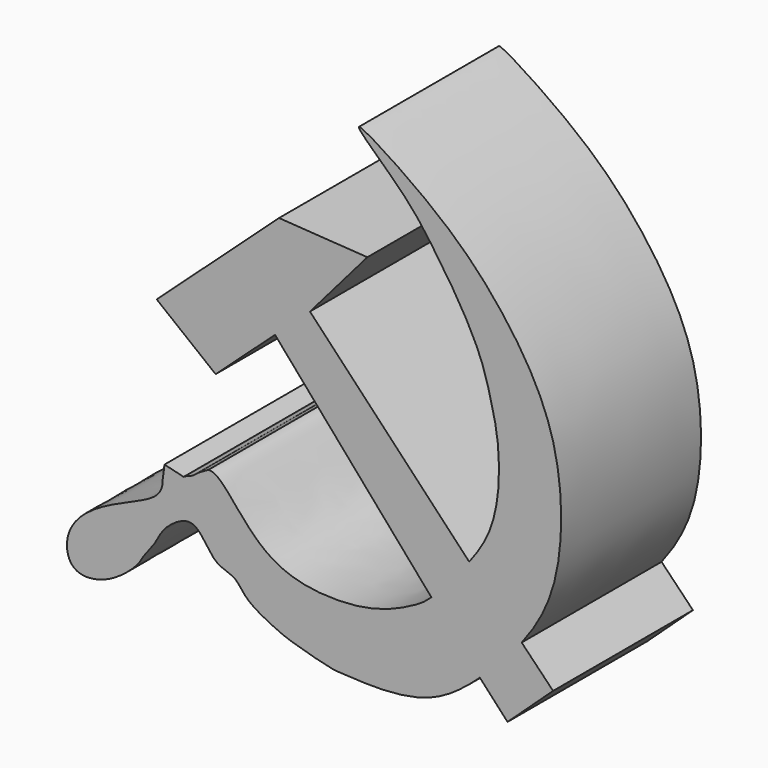
from build123d import *

# Parameters (mm, degrees)
F1_DEPTH = 7


with BuildPart() as f1:
    # F0 (on Front) → F1 (new body)
    with BuildSketch(Plane.XZ):
        with BuildLine():
            Line((-6.4950459637, 1.1675328715), (-4.1164821014, 3.3289631829))
            Line((-4.1164821014, 3.3289631829), (2.1449406631, -3.8891390432))
            add(Edge.make_bspline(
                [(3.6578383297, -2.1421851125), (3.2109456388, -2.7285032676), (2.5778835462, -3.4803615967), (2.1449406631, -3.8891390432)],
                knots=[0.2067136048, 0.2067136048, 0.2067136048, 0.2067136048, 0.2330902126, 0.2330902126, 0.2330902126, 0.2330902126], degree=3))
            Line((3.6578383297, -2.1421851125), (-2.7173105627, 4.6036634594))
            Line((-2.7173105627, 4.6036634594), (-0.4199028481, 7.2657116689))
            Line((-0.4199028481, 7.2657116689), (-3.9569986984, 7.4983569793))
            Line((-3.9569986984, 7.4983569793), (-8.854098618, 3.0369071756))
            Line((-8.854098618, 3.0369071756), (-6.4950459637, 1.1675328715))
        make_face()
        with BuildLine():
            add(Edge.make_bspline(
                [(3.6578383297, -2.1421851125), (3.2109456388, -2.7285032676), (2.5778835462, -3.4803615967), (2.1449406631, -3.8891390432)],
                knots=[0.2067136048, 0.2067136048, 0.2067136048, 0.2067136048, 0.2330902126, 0.2330902126, 0.2330902126, 0.2330902126], degree=3))
            Line((2.1449406631, -3.8891390432), (4.0844837204, -6.0908854939))
            add(Edge.make_bspline(
                [(4.0844837204, -6.0908854939), (4.6609029866, -5.5651948077), (5.2575793442, -4.9530916323), (5.7594731242, -4.3068724109)],
                knots=[0.8007112849, 0.8007112849, 0.8007112849, 0.8007112849, 0.8236457946, 0.8236457946, 0.8236457946, 0.8236457946], degree=3))
            Line((5.7594731242, -4.3068724109), (3.6578383297, -2.1421851125))
        make_face()
        with BuildLine():
            add(Edge.make_bspline(
                [(-0.7619783864, 11.7462398484), (-0.7993211756, 11.6447027691), (1.0524022453, 10.0267826652), (2.0026869436, 8.7808221765), (3.3225342188, 6.8446700089), (4.2011801854, 5.1381487825), (4.5711937018, 3.6818923132), (4.8505597401, 2.4732351027), (4.8867396307, 0.6604148781), (4.5019445684, -0.9315981385), (4.0166901651, -1.6713755637), (3.6578383297, -2.1421851125)],
                knots=[0, 0, 0, 0, 0.0256729902, 0.0499438402, 0.0759261427, 0.1002136352, 0.1211013486, 0.1404018667, 0.1636760495, 0.1855333656, 0.2067136048, 0.2067136048, 0.2067136048, 0.2067136048], degree=3))
            Line((3.6578383297, -2.1421851125), (5.7594731242, -4.3068724109))
            add(Edge.make_bspline(
                [(5.7594731242, -4.3068724109), (5.9556026148, -4.0543435856), (6.7470428342, -2.9314224392), (7.4834121488, -0.7157931624), (7.2792025733, 3.5983495226), (5.062045283, 7.1906473079), (2.4747228351, 9.8488762041), (-0.7172160016, 11.867951213), (-0.7619783864, 11.7462398484)],
                knots=[0.8236457946, 0.8236457946, 0.8236457946, 0.8236457946, 0.8326081166, 0.862693031, 0.8980618526, 0.9329999423, 0.9692260729, 1, 1, 1, 1], degree=3))
        make_face()
        with BuildLine():
            add(Edge.make_bspline(
                [(4.0844837204, -6.0908854939), (4.6609029866, -5.5651948077), (5.2575793442, -4.9530916323), (5.7594731242, -4.3068724109)],
                knots=[0.8007112849, 0.8007112849, 0.8007112849, 0.8007112849, 0.8236457946, 0.8236457946, 0.8236457946, 0.8236457946], degree=3))
            Line((4.0844837204, -6.0908854939), (5.1930826157, -7.2894580662))
            Line((5.1930826157, -7.2894580662), (7.0171688951, -5.6023011255))
            Line((7.0171688951, -5.6023011255), (5.7594731242, -4.3068724109))
        make_face()
        with BuildLine():
            Line((4.0844837204, -6.0908854939), (2.1449406631, -3.8891390432))
            add(Edge.make_bspline(
                [(2.1449406631, -3.8891390432), (1.871128954, -4.1476674903), (1.407662696, -4.4378051617), (-0.2918243628, -5.2482722543), (-2.909192259, -5.2563491365), (-4.5184463969, -4.5392609995), (-5.6152513146, -3.3351295266), (-6.4455445726, -2.2618135457), (-6.7842290737, -2.2989320569)],
                knots=[0.2330902126, 0.2330902126, 0.2330902126, 0.2330902126, 0.2497719143, 0.2729907028, 0.3010331295, 0.3236028264, 0.3464444791, 0.3672714421, 0.3672714421, 0.3672714421, 0.3672714421], degree=3))
            Line((-6.7842290737, -2.2989320569), (-7.1796265438, -2.5262856812))
            add(Edge.make_bspline(
                [(-7.1796265438, -2.5262856812), (-7.3239182662, -2.6448774058), (-7.4759249391, -2.7708986054), (-7.6557377386, -2.8000497134)],
                knots=[0.37561912, 0.37561912, 0.37561912, 0.37561912, 0.3846682288, 0.3846682288, 0.3846682288, 0.3846682288], degree=3))
            Line((-7.6557377386, -2.8000497134), (-7.7745048329, -2.8683408163))
            Line((-7.7745048329, -2.8683408163), (-8.5419695824, -2.682663966))
            Line((-8.5419695824, -2.682663966), (-8.6138471017, -3.2337266995))
            add(Edge.make_bspline(
                [(-8.6138471017, -3.2337266995), (-8.6161673691, -3.3373032917), (-8.6251746387, -3.4423628784), (-8.6533753201, -3.536777338)],
                knots=[0.4124161448, 0.4124161448, 0.4124161448, 0.4124161448, 0.4171764869, 0.4171764869, 0.4171764869, 0.4171764869], degree=3))
            add(Edge.make_bspline(
                [(-8.6533753201, -3.536777338), (-8.7768882513, -3.950292404), (-9.876966219, -4.4185998005), (-11.8276561224, -5.2985497978), (-12.5987952723, -6.5523689371), (-12.2673739443, -7.7853712908), (-10.7154523674, -7.6251227179), (-9.5399587451, -6.5368383187), (-9.4475235126, -6.2308003198), (-8.8819766874, -5.5989495589), (-8.6474005713, -4.9324353163), (-7.9244857954, -4.4218935393), (-7.6321528759, -4.3908907101)],
                knots=[0.4171764869, 0.4171764869, 0.4171764869, 0.4171764869, 0.4380257638, 0.4638233308, 0.4840463128, 0.5009194624, 0.5210043964, 0.5424808532, 0.5523556412, 0.5675662098, 0.5828265059, 0.6007937619, 0.6007937619, 0.6007937619, 0.6007937619], degree=3))
            add(Edge.make_bspline(
                [(-7.6321528759, -4.3908907101), (-7.5940875276, -4.3868537597), (-7.5576934825, -4.3869719354), (-7.5227187723, -4.3908907101)],
                knots=[0.6007937619, 0.6007937619, 0.6007937619, 0.6007937619, 0.6031333201, 0.6031333201, 0.6031333201, 0.6031333201], degree=3))
            add(Edge.make_bspline(
                [(-7.5227187723, -4.3908907101), (-7.3551639284, -4.4096645518), (-7.0087098133, -4.6817424309), (-6.5300265302, -5.5800273108), (-5.656544907, -5.6768267861), (-5.3183710335, -6.4565184372), (-3.8239800691, -7.1436534647), (-3.4453457088, -7.2757604413), (-1.8222108534, -7.7406855471), (-1.5231071852, -7.7122694967), (-0.4569607283, -7.8163799443), (2.0472356098, -7.7477590619), (3.3766816419, -6.736396465), (4.0844837204, -6.0908854939)],
                knots=[0.6031333201, 0.6031333201, 0.6031333201, 0.6031333201, 0.6143415415, 0.6319016733, 0.6469387653, 0.6625280619, 0.6839261965, 0.696716706, 0.7184894967, 0.7284402947, 0.7454298604, 0.7725493297, 0.8007112849, 0.8007112849, 0.8007112849, 0.8007112849], degree=3))
        make_face()
    extrude(amount=F1_DEPTH)


solid = f1.part
